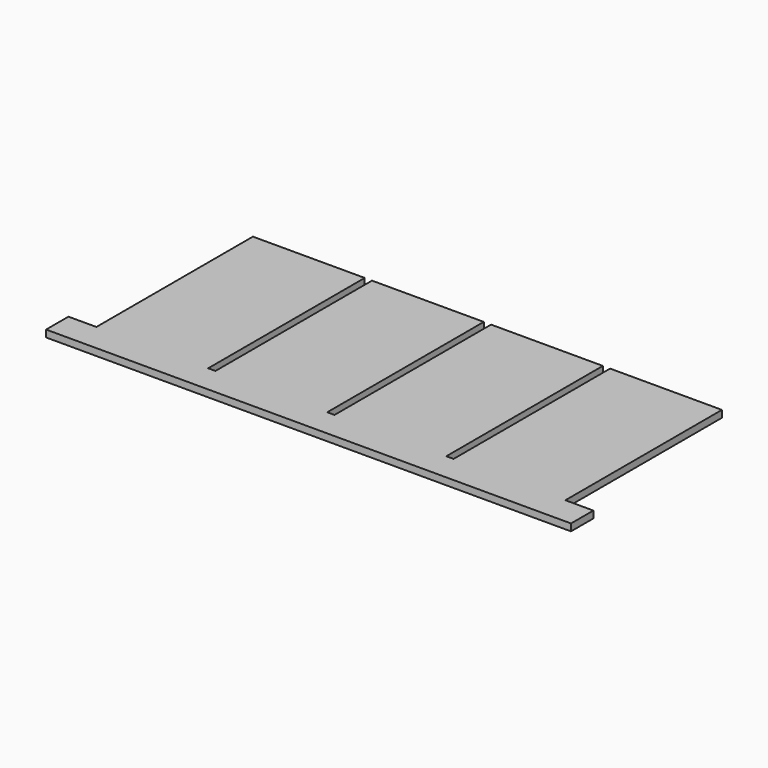
from build123d import *

# Parameters (mm, degrees)
F1_DEPTH = 3.175


with BuildPart() as f1:
    # F0 (on Top) → F1 (new body)
    with BuildSketch(Plane.XY):
        Polygon((-12.7, 0), (0, 0), (213.106, 0), (225.806, 0), (225.806, 12.7), (213.106, 12.7), (213.106, 101.6), (162.306, 101.6), (162.306, 12.7), (159.004, 12.7), (159.004, 101.6), (108.204, 101.6), (108.204, 12.7), (104.902, 12.7), (104.902, 101.6), (54.102, 101.6), (54.102, 12.7), (50.8, 12.7), (50.8, 101.6), (0, 101.6), (0, 12.7), (-12.7, 12.7), align=None)
        Polygon((-12.7, 0), (0, 0), (213.106, 0), (225.806, 0), (225.806, 12.7), (213.106, 12.7), (213.106, 101.6), (162.306, 101.6), (162.306, 12.7), (159.004, 12.7), (159.004, 101.6), (108.204, 101.6), (108.204, 12.7), (104.902, 12.7), (104.902, 101.6), (54.102, 101.6), (54.102, 12.7), (50.8, 12.7), (50.8, 101.6), (0, 101.6), (0, 12.7), (-12.7, 12.7), align=None)
        Polygon((-12.7, 0), (0, 0), (213.106, 0), (225.806, 0), (225.806, 12.7), (213.106, 12.7), (213.106, 101.6), (162.306, 101.6), (162.306, 12.7), (159.004, 12.7), (159.004, 101.6), (108.204, 101.6), (108.204, 12.7), (104.902, 12.7), (104.902, 101.6), (54.102, 101.6), (54.102, 12.7), (50.8, 12.7), (50.8, 101.6), (0, 101.6), (0, 12.7), (-12.7, 12.7), align=None)
    extrude(amount=F1_DEPTH)


solid = f1.part
